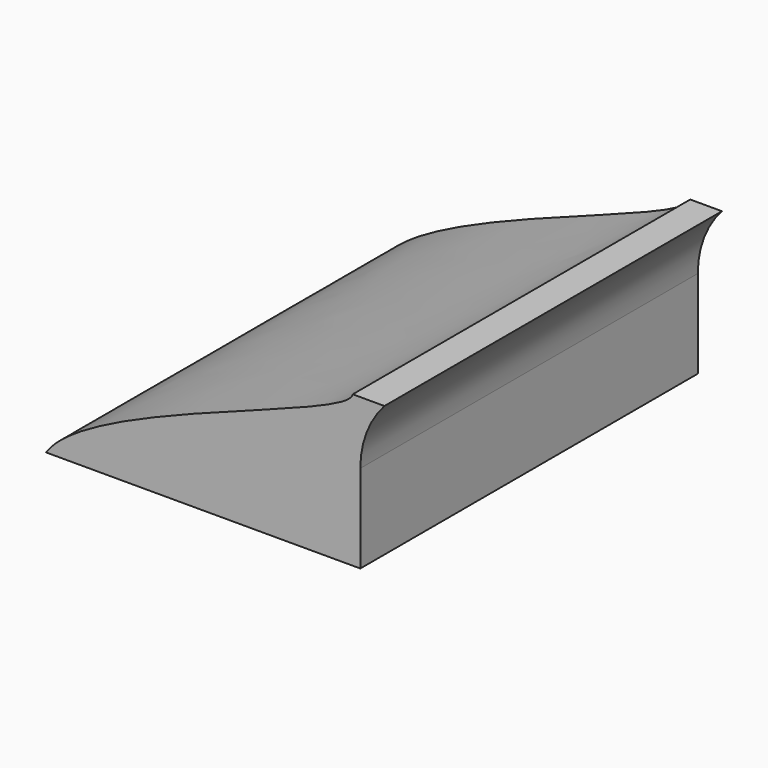
from build123d import *

# Parameters (mm, degrees)
F1_DEPTH = 127


with BuildPart() as f1:
    # F0 (on Front) → F1 (new body)
    with BuildSketch(Plane.XZ):
        with BuildLine():
            add(Edge.make_bspline(
                [(-23.0277776718, 17.8413242102), (-10.603401562, 36.5638226207), (68.2696296535, 55.9972494787), (69.2906677723, 63.274435699)],
                knots=[0, 0, 0, 0, 0.2394875952, 0.2394875952, 0.2394875952, 0.2394875952], degree=3))
            Line((-23.0277776718, 17.8413242102), (71.5726912022, 17.8413242102))
            Line((71.5726912022, 17.8413242102), (71.5726912022, 44.3958416581))
            ThreePointArc((71.5726912022, 44.3958416581), (73.4505181635, 54.5092376963), (78.8336694241, 63.274435699))
            Line((78.8336694241, 63.274435699), (69.2906677723, 63.274435699))
        make_face()
    extrude(amount=F1_DEPTH)


solid = f1.part
